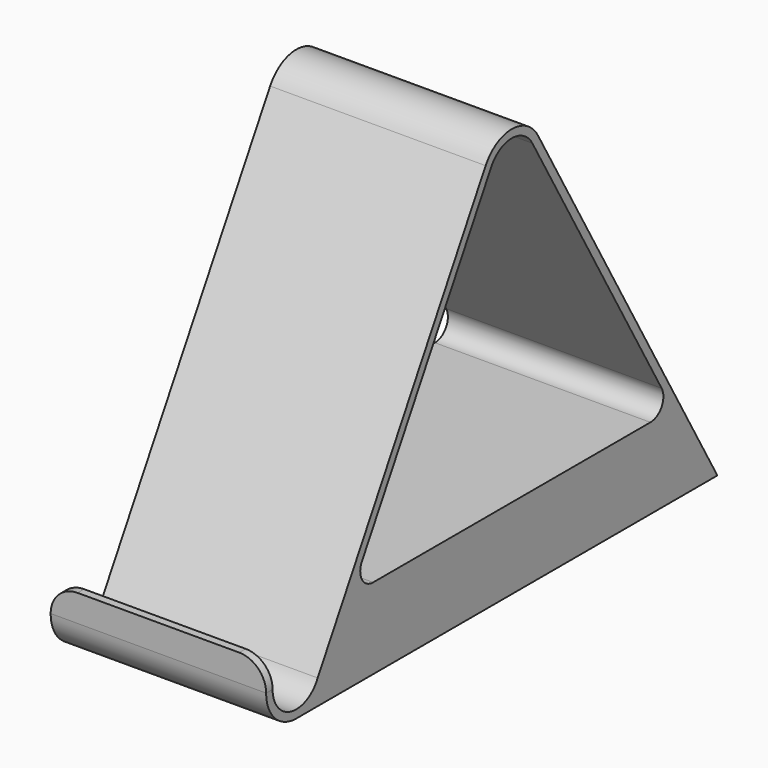
from build123d import *

# Parameters (mm, degrees)
F1_DEPTH = 40
F2_R     = 5


with BuildPart() as f1:
    # F0 (on Right) → F1 (new body)
    with BuildSketch(Plane.YZ):
        with BuildLine():
            Line((-7, 5), (-7, 0))
            ThreePointArc((-7, 0), (-4.949747, -4.949747), (0, -7))
            Line((0, -7), (97.694285, -7))
            Line((97.694285, -7), (56.070348, 65.48581))
            ThreePointArc((56.070348, 65.48581), (50, 69), (43.929652, 65.48581))
            Line((43.929652, 65.48581), (4.956866, -2.383166))
            ThreePointArc((4.956866, -2.383166), (-1.222137, -5.362498), (-5.5, 0))
            Line((-5.5, 0), (-5.5, 5))
            Line((-5.5, 5), (-7, 5))
        make_face()
        with BuildLine():
            ThreePointArc((45.230441, 64.738851), (50, 67.5), (54.769559, 64.738851))
            Line((54.769559, 64.738851), (84.770462, 12.493919))
            ThreePointArc((84.770462, 12.493919), (84.765204, 9.496962), (82.168884, 8))
            Line((82.168884, 8), (17.831116, 8))
            ThreePointArc((17.831116, 8), (15.234796, 9.496962), (15.229538, 12.493919))
            Line((15.229538, 12.493919), (45.230441, 64.738851))
        make_face(mode=Mode.SUBTRACT)
    extrude(amount=F1_DEPTH)

    # F2
    f2_edges = [f1.edges().sort_by_distance(p)[0] for p in [
        (40, -6.25, 5),
        (0, -6.25, 5),
    ]]
    fillet(f2_edges, radius=F2_R)


solid = f1.part
